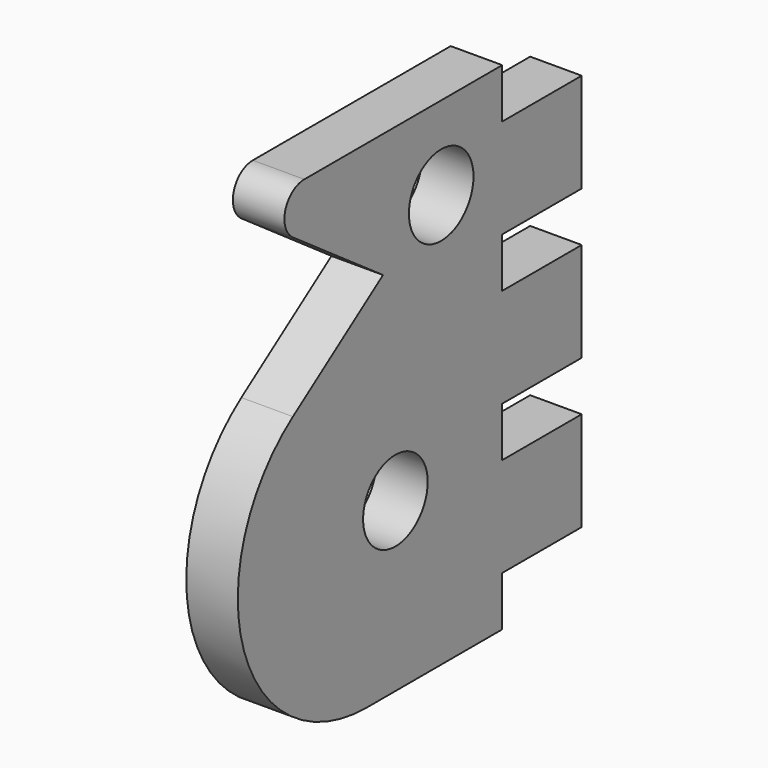
from build123d import *

# Parameters (mm, degrees)
F0_R     = 3.25
F1_DEPTH = 4.15


with BuildPart() as f1:
    # F0 (on Right) → F1 (new body)
    with BuildSketch(Plane.YZ):
        with BuildLine():
            Line((-13.613708, 0), (0, 0))
            Line((0, 0), (0, 4))
            Line((0, 4), (8, 4))
            Line((8, 4), (8, 12))
            Line((8, 12), (0, 12))
            Line((0, 12), (0, 16))
            Line((0, 16), (8, 16))
            Line((8, 16), (8, 24))
            Line((8, 24), (0, 24))
            Line((0, 24), (0, 28))
            Line((0, 28), (8, 28))
            Line((8, 28), (8, 36))
            Line((8, 36), (0, 36))
            Line((0, 36), (0, 40))
            Line((0, 40), (-19.919684, 40))
            ThreePointArc((-19.919684, 40), (-21.832713, 38.597309), (-21.070201, 36.351023))
            Line((-21.070201, 36.351023), (-12, 30))
            Line((-12, 30), (-21.070201, 23.648977))
            ThreePointArc((-21.070201, 23.648977), (-26.012028, 9.090825), (-13.613708, 0))
        make_face()
        with Locations((-10.754399, 13.5)):
            Circle(F0_R, mode=Mode.SUBTRACT)
        with Locations((-6.143649, 33.287299)):
            Circle(F0_R, mode=Mode.SUBTRACT)
    extrude(amount=F1_DEPTH)


solid = f1.part
